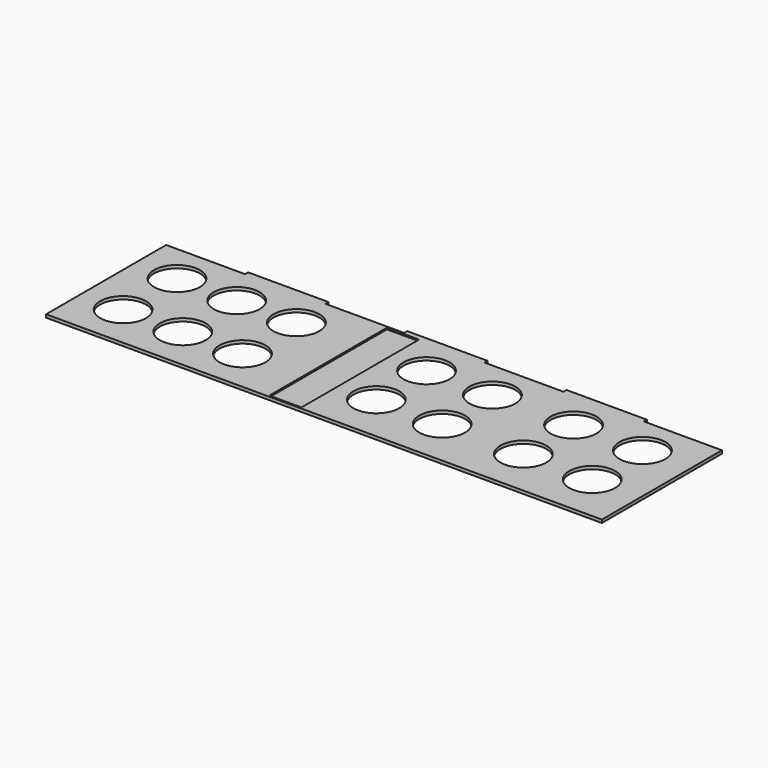
from build123d import *

# Parameters (mm, degrees)
SKETCH093_W           = 21
SKETCH093_H           = 96
EXTRUDE085_DEPTH      = 1
SKETCH140_R           = 15
EXTRUDE130_DEPTH      = 3
EXTRUDE130_DEPTH_BACK = 1
EXTRUDE074_DEPTH      = 2


with BuildPart() as cutout:
    # Sketch093 → Extrude085 (new body)
    with BuildSketch(Plane(origin=(0, 0, -25), x_dir=(1, 0, 0), z_dir=(0, 0, -1))):
        with Locations((153, -47.5)):
            Rectangle(SKETCH093_W, SKETCH093_H)
    extrude(amount=EXTRUDE085_DEPTH)


with BuildPart() as compound029:
    # Sketch140 → Extrude130 (new body, two sides)
    with BuildSketch(Plane(origin=(0, 0, -25), x_dir=(1, 0, 0), z_dir=(0, 0, -1))) as extrude130_sk:
        with Locations((25, -27)):
            Circle(SKETCH140_R)
        with Locations((103, -27)):
            Circle(SKETCH140_R)
        with Locations((64, -27)):
            Circle(SKETCH140_R)
        with Locations((103, -71)):
            Circle(SKETCH140_R)
        with Locations((25, -71)):
            Circle(SKETCH140_R)
        with Locations((64, -71)):
            Circle(SKETCH140_R)
        with Locations((188, -30)):
            Circle(SKETCH140_R)
        with Locations((231, -30)):
            Circle(SKETCH140_R)
        with Locations((188, -71)):
            Circle(SKETCH140_R)
        with Locations((231, -71)):
            Circle(SKETCH140_R)
        with Locations((284, -30)):
            Circle(SKETCH140_R)
        with Locations((329, -30)):
            Circle(SKETCH140_R)
        with Locations((284, -71)):
            Circle(SKETCH140_R)
        with Locations((329, -71)):
            Circle(SKETCH140_R)
    extrude(amount=EXTRUDE130_DEPTH)
    extrude(extrude130_sk.sketch, amount=-EXTRUDE130_DEPTH_BACK)

    # Compound029: union cutout
    add(cutout.part)


with BuildPart() as panel002:
    # Sketch082 → Extrude074 (new body)
    with BuildSketch(Plane(origin=(0, 0, -25), x_dir=(1, 0, 0), z_dir=(0, 0, -1))):
        Polygon((-2.5, 1.5), (360.5, 1.5), (360.5, -96.5), (309.5, -96.5), (309.5, -99), (257, -99), (257, -96.5), (205.5, -96.5), (205.5, -99), (153, -99), (153, -96.5), (101.5, -96.5), (101.5, -99), (49, -99), (49, -96.5), (-2.5, -96.5), align=None)
    extrude(amount=EXTRUDE074_DEPTH)

    # Cut: cut Compound029
    add(compound029.part, mode=Mode.SUBTRACT)


solid = panel002.part
